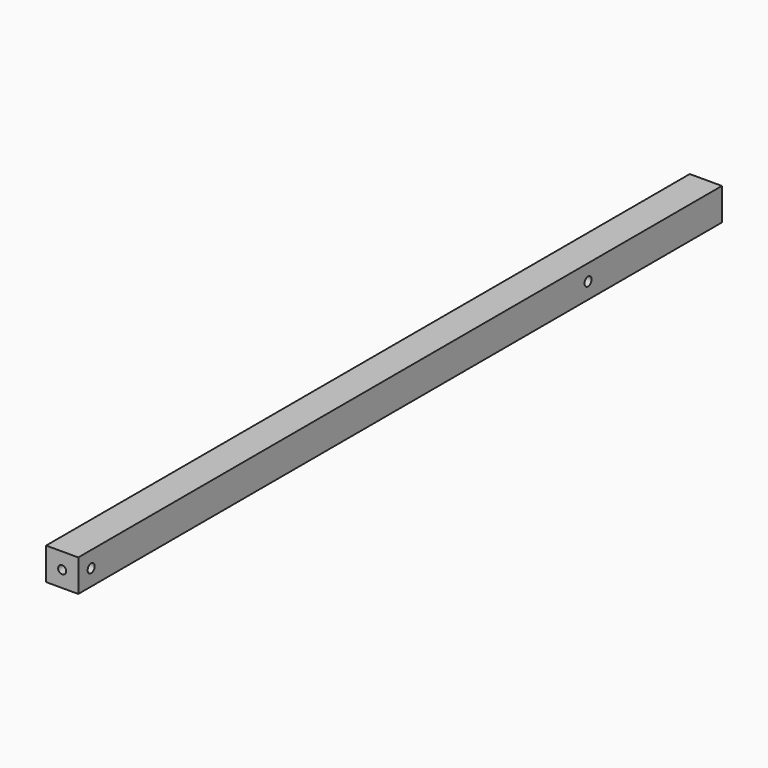
from build123d import *

# Parameters (mm, degrees)
F0_W     = 20
F0_H     = 20
F0_R     = 2.5
F1_DEPTH = 250
F2_R     = 2.75
F3_DEPTH = 20


with BuildPart() as f1:
    # F0 (on Front) → F1 (new body, symmetric)
    with BuildSketch(Plane.XZ):
        Rectangle(F0_W, F0_H)
        Circle(F0_R, mode=Mode.SUBTRACT)
    extrude(amount=F1_DEPTH, both=True)

    # F2 (on face) → F3 (cut)
    with BuildSketch(Plane.YZ.offset(10)):
        with Locations((-240, 0)):
            Circle(F2_R)
        with Locations((146, 0)):
            Circle(F2_R)
    extrude(amount=-F3_DEPTH, mode=Mode.SUBTRACT)


solid = f1.part
